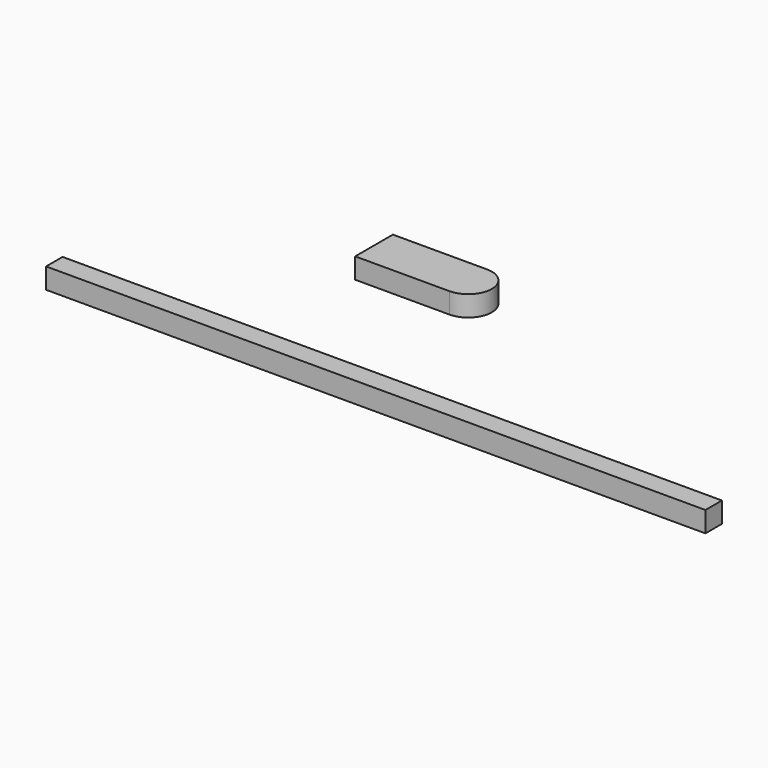
from build123d import *

# Parameters (mm, degrees)
F0_W     = 355.6
F0_H     = 11.1125
F1_DEPTH = 11.1125
F3_DEPTH = 11.1125


with BuildPart() as f1:
    # F0 (on Top) → F1 (new body)
    with BuildSketch(Plane.XY):
        with Locations((96.970521, -59.575913)):
            Rectangle(F0_W, F0_H)
    extrude(amount=F1_DEPTH)


with BuildPart() as f3:
    # F2 (on Top) → F3 (new body)
    with BuildSketch(Plane.XY):
        with BuildLine():
            Line((15.084176, 48.768854), (15.084176, 23.368854))
            Line((15.084176, 23.368854), (65.884176, 23.368854))
            ThreePointArc((65.884176, 23.368854), (78.584176, 36.068854), (65.884176, 48.768854))
            Line((65.884176, 48.768854), (15.084176, 48.768854))
        make_face()
    extrude(amount=F3_DEPTH)


with BuildPart() as f4_1:
    # F4: copy of F3
    add(f3.part)


solid = Compound([f1.part, f3.part, f4_1.part])
